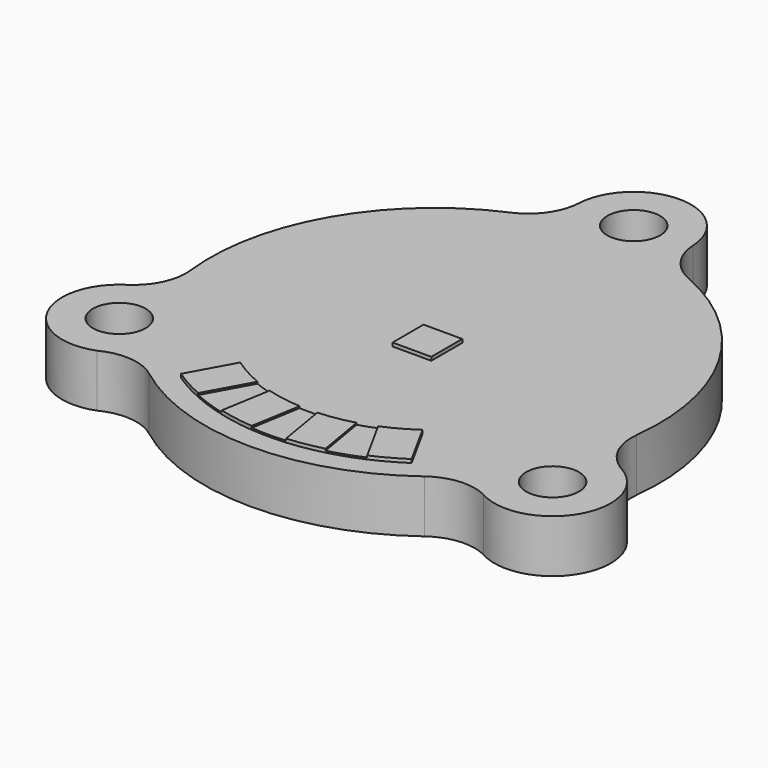
from build123d import *

# Parameters (mm, degrees)
F0_R     = 1.5
F1_DEPTH = 3
F2_W     = 2.2
F2_H     = 2.2
F3_DEPTH = 0.2
F5_DEPTH = 0.1
F6_DEPTH = 0.2


with BuildPart() as f1:
    # F0 (on Top) → F1 (new body)
    with BuildSketch(Plane.XY):
        with BuildLine():
            ThreePointArc((5.053231, 11.711225), (3.778342, 12.753574), (3.24572, 14.311827))
            ThreePointArc((3.24572, 14.311827), (0, 17.395082), (-3.24572, 14.311827))
            ThreePointArc((-3.24572, 14.311827), (-3.778342, 12.753574), (-5.053231, 11.711225))
            ThreePointArc((-5.053231, 11.711225), (-11.046083, 6.377459), (-12.668834, -1.479386))
            ThreePointArc((-12.668834, -1.479386), (-12.93409, -3.104647), (-14.017265, -4.345038))
            ThreePointArc((-14.017265, -4.345038), (-15.14542, -8.548699), (-11.080733, -10.104918))
            ThreePointArc((-11.080733, -10.104918), (-9.449522, -9.788391), (-7.900064, -10.388572))
            ThreePointArc((-7.900064, -10.388572), (-0.067306, -13.051011), (7.792495, -10.469501))
            ThreePointArc((7.792495, -10.469501), (9.332641, -9.886588), (10.948438, -10.20445))
            ThreePointArc((10.948438, -10.20445), (15.444934, -8.940161), (14.180645, -4.443665))
            ThreePointArc((14.180645, -4.443665), (14.098171, -4.395651), (14.017265, -4.345038))
            ThreePointArc((14.017265, -4.345038), (12.93409, -3.104647), (12.668834, -1.479386))
            ThreePointArc((12.668834, -1.479386), (11.046083, 6.377459), (5.053231, 11.711225))
        make_face()
        with Locations((-12.25, -7.072541)):
            Circle(F0_R, mode=Mode.SUBTRACT)
        with Locations((12.564541, -7.324058)):
            Circle(F0_R, mode=Mode.SUBTRACT)
        with Locations((0, 14.145082)):
            Circle(F0_R, mode=Mode.SUBTRACT)
    extrude(amount=F1_DEPTH)

    # F2 (on face) → F3 (join)
    with BuildSketch(Plane.XY.offset(3)):
        with Locations((0, -0.504918)):
            Rectangle(F2_W, F2_H)
    extrude(amount=F3_DEPTH)

    # F4 (on face) → F5 (join)
    with BuildSketch(Plane.XY.offset(3)):
        with BuildLine():
            Line((-4.80058, -10.782232), (-3.42495, -8.286207))
            ThreePointArc((-3.42495, -8.286207), (-4.327749, -7.852521), (-5.176546, -7.320852))
            Line((-5.176546, -7.320852), (-6.552177, -9.816877))
            ThreePointArc((-6.552177, -9.816877), (-5.696863, -10.336723), (-4.80058, -10.782232))
        make_face()
        with BuildLine():
            Line((-2.94705, -11.428779), (-2.471803, -8.618683))
            ThreePointArc((-2.471803, -8.618683), (-2.953059, -8.465869), (-3.42495, -8.286207))
            Line((-3.42495, -8.286207), (-4.80058, -10.782232))
            ThreePointArc((-4.80058, -10.782232), (-3.88728, -11.144108), (-2.94705, -11.428779))
        make_face()
        with BuildLine():
            ThreePointArc((-0.499806, -8.952189), (-1.495132, -8.840593), (-2.471803, -8.618683))
            Line((-2.471803, -8.618683), (-2.94705, -11.428779))
            ThreePointArc((-2.94705, -11.428779), (-1.968128, -11.637378), (-0.975053, -11.762286))
            Line((-0.975053, -11.762286), (-0.499806, -8.952189))
        make_face()
        with BuildLine():
            ThreePointArc((0.499806, -8.952189), (0, -8.966131), (-0.499806, -8.952189))
            Line((-0.499806, -8.952189), (-0.975053, -11.762286))
            ThreePointArc((-0.975053, -11.762286), (0, -11.802631), (0.975053, -11.762286))
            Line((0.975053, -11.762286), (0.499806, -8.952189))
        make_face()
        with BuildLine():
            ThreePointArc((2.471803, -8.618683), (1.495132, -8.840593), (0.499806, -8.952189))
            Line((0.499806, -8.952189), (0.975053, -11.762286))
            ThreePointArc((0.975053, -11.762286), (1.968128, -11.637378), (2.94705, -11.428779))
            Line((2.94705, -11.428779), (2.471803, -8.618683))
        make_face()
        with BuildLine():
            ThreePointArc((3.42495, -8.286207), (2.953059, -8.465869), (2.471803, -8.618683))
            Line((2.471803, -8.618683), (2.94705, -11.428779))
            ThreePointArc((2.94705, -11.428779), (3.88728, -11.144108), (4.80058, -10.782232))
            Line((4.80058, -10.782232), (3.42495, -8.286207))
        make_face()
        with BuildLine():
            ThreePointArc((5.176546, -7.320852), (4.327749, -7.852521), (3.42495, -8.286207))
            Line((3.42495, -8.286207), (4.80058, -10.782232))
            ThreePointArc((4.80058, -10.782232), (5.696863, -10.336723), (6.552177, -9.816877))
            Line((6.552177, -9.816877), (5.176546, -7.320852))
        make_face()
    extrude(amount=F5_DEPTH)

    # F4 (on face) → F6 (join)
    with BuildSketch(Plane.XY.offset(3)):
        with BuildLine():
            Line((-4.80058, -10.782232), (-3.42495, -8.286207))
            ThreePointArc((-3.42495, -8.286207), (-4.327749, -7.852521), (-5.176546, -7.320852))
            Line((-5.176546, -7.320852), (-6.552177, -9.816877))
            ThreePointArc((-6.552177, -9.816877), (-5.696863, -10.336723), (-4.80058, -10.782232))
        make_face()
        with BuildLine():
            ThreePointArc((-0.499806, -8.952189), (-1.495132, -8.840593), (-2.471803, -8.618683))
            Line((-2.471803, -8.618683), (-2.94705, -11.428779))
            ThreePointArc((-2.94705, -11.428779), (-1.968128, -11.637378), (-0.975053, -11.762286))
            Line((-0.975053, -11.762286), (-0.499806, -8.952189))
        make_face()
        with BuildLine():
            ThreePointArc((2.471803, -8.618683), (1.495132, -8.840593), (0.499806, -8.952189))
            Line((0.499806, -8.952189), (0.975053, -11.762286))
            ThreePointArc((0.975053, -11.762286), (1.968128, -11.637378), (2.94705, -11.428779))
            Line((2.94705, -11.428779), (2.471803, -8.618683))
        make_face()
        with BuildLine():
            ThreePointArc((5.176546, -7.320852), (4.327749, -7.852521), (3.42495, -8.286207))
            Line((3.42495, -8.286207), (4.80058, -10.782232))
            ThreePointArc((4.80058, -10.782232), (5.696863, -10.336723), (6.552177, -9.816877))
            Line((6.552177, -9.816877), (5.176546, -7.320852))
        make_face()
    extrude(amount=F6_DEPTH)


solid = f1.part
